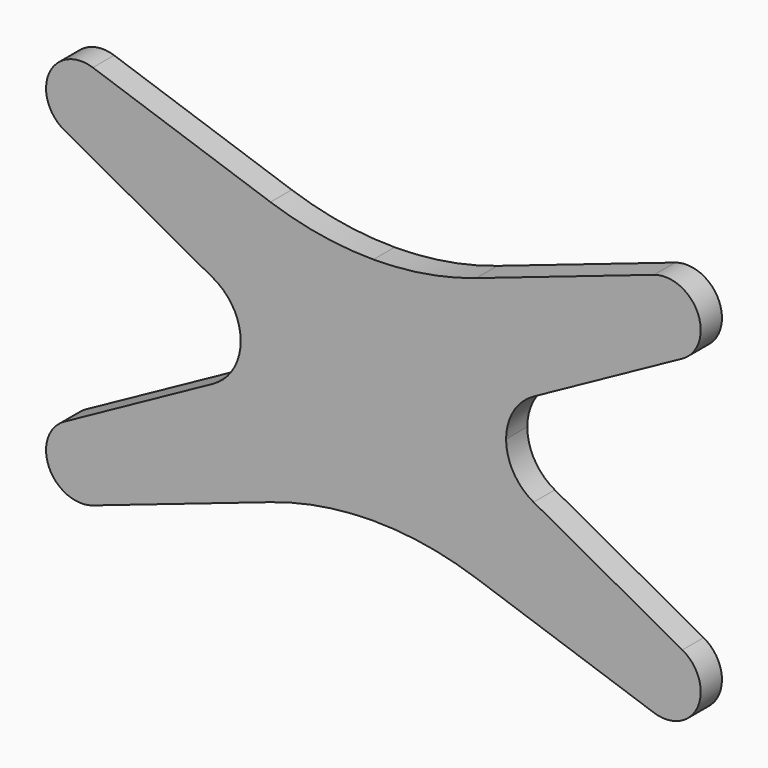
from build123d import *

# Parameters (mm, degrees)
F1_DEPTH = 30


with BuildPart() as f1:
    # F0 (on Front) → F1 (new body)
    with BuildSketch(Plane.XZ):
        with BuildLine():
            Line((-116.322268, 149.310802), (-317.075304, 217.854355))
            ThreePointArc((-317.075304, 217.854355), (-366.594288, 196.151102), (-349.256399, 144.940178))
            Line((-349.256399, 144.940178), (-181.115401, 52.589732))
            ThreePointArc((-181.115401, 52.589732), (-158.361468, 30.552611), (-150, 0))
            ThreePointArc((-150, 0), (-158.361468, -30.552611), (-181.115401, -52.589732))
            Line((-181.115401, -52.589732), (-349.256399, -144.940178))
            ThreePointArc((-349.256399, -144.940178), (-366.594288, -196.151102), (-317.075304, -217.854355))
            Line((-317.075304, -217.854355), (-116.322268, -149.310802))
            ThreePointArc((-116.322268, -149.310802), (-58.957139, -134.860512), (0, -130))
            ThreePointArc((0, -130), (58.957139, -134.860512), (116.322268, -149.310802))
            Line((116.322268, -149.310802), (317.075304, -217.854355))
            ThreePointArc((317.075304, -217.854355), (366.594288, -196.151102), (349.256399, -144.940178))
            Line((349.256399, -144.940178), (181.115401, -52.589732))
            ThreePointArc((181.115401, -52.589732), (158.361468, -30.552611), (150, 0))
            ThreePointArc((150, 0), (158.361468, 30.552611), (181.115401, 52.589732))
            Line((181.115401, 52.589732), (349.256399, 144.940178))
            ThreePointArc((349.256399, 144.940178), (366.594288, 196.151102), (317.075304, 217.854355))
            Line((317.075304, 217.854355), (116.322268, 149.310802))
            ThreePointArc((116.322268, 149.310802), (58.957139, 134.860512), (0, 130))
            ThreePointArc((0, 130), (-58.957139, 134.860512), (-116.322268, 149.310802))
        make_face()
    extrude(amount=F1_DEPTH)


solid = f1.part
